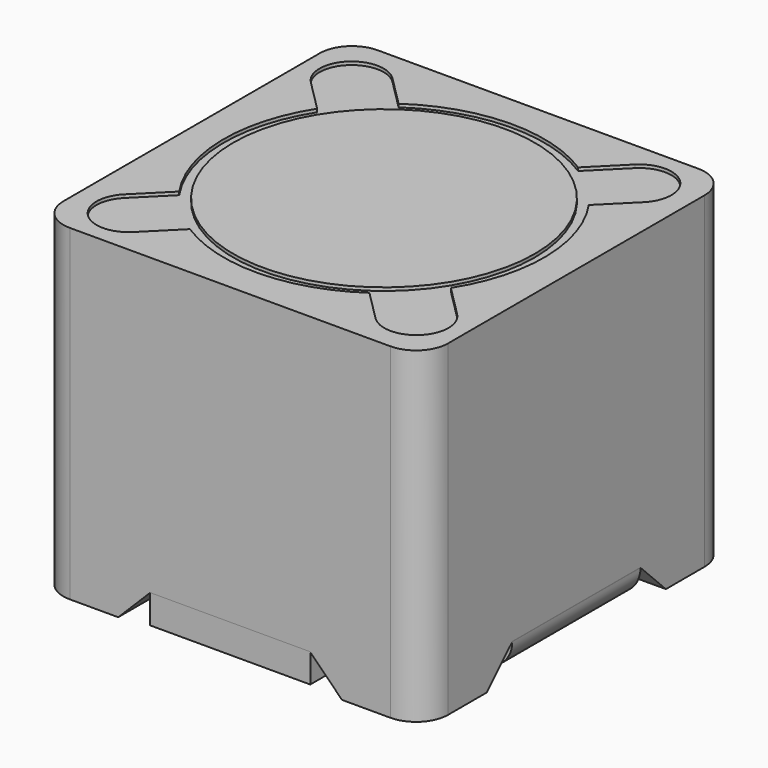
from build123d import *

# Parameters (mm, degrees)
BOX006_W                  = 5
BOX006_H                  = 5
BOX006_DEPTH              = 0.9
BOX007_W                  = 5
BOX007_H                  = 5
BOX007_DEPTH              = 0.9
BOX005_W                  = 5
BOX005_H                  = 5
BOX005_DEPTH              = 0.9
FILLET_R                  = 0.89
BOX004_W                  = 5
BOX004_H                  = 5
BOX004_DEPTH              = 0.9
FILLET003_R               = 0.89
CYLINDER002_R             = 4.7
CYLINDER002_DEPTH         = 0.3
BOX012_W                  = 11
BOX012_H                  = 11
BOX012_DEPTH              = 0.1
BOX009_W                  = 2
BOX009_H                  = 1.5
BOX009_DEPTH              = 0.3
CYLINDER007_R             = 1
CYLINDER007_DEPTH         = 0.3
FUSION001_PLACEMENT_ANGLE = 225
BOX008_W                  = 2
BOX008_H                  = 1.5
BOX008_DEPTH              = 0.3
CYLINDER006_R             = 1
CYLINDER006_DEPTH         = 0.3
FUSION_PLACEMENT_ANGLE    = -45
BOX011_W                  = 2
BOX011_H                  = 1.5
BOX011_DEPTH              = 0.3
CYLINDER009_R             = 1
CYLINDER009_DEPTH         = 0.3
FUSION003_PLACEMENT_ANGLE = 135
BOX010_W                  = 2
BOX010_H                  = 1.5
BOX010_DEPTH              = 0.3
CYLINDER008_R             = 1
CYLINDER008_DEPTH         = 0.3
FUSION002_PLACEMENT_ANGLE = 45
CYLINDER001_R             = 5
CYLINDER001_DEPTH         = 0.3
BOX001_W                  = 5
BOX001_H                  = 3.5
BOX001_DEPTH              = 1
BOX_W                     = 5
BOX_H                     = 3.5
BOX_DEPTH                 = 1
BOX002_W                  = 3.5
BOX002_H                  = 5
BOX002_DEPTH              = 1
BOX003_W                  = 3.5
BOX003_H                  = 5
BOX003_DEPTH              = 1
SKETCH_W                  = 12
SKETCH_H                  = 12
PAD_DEPTH                 = 10.2
CHAMFER_SIZE              = 0.99
FILLET002_R               = 1


with BuildPart() as kub006:
    # Box006 → Box006 (new body)
    with BuildSketch(Plane(origin=(-2.5, 1, 0.1), x_dir=(1, 0, 0), z_dir=(0, 0, 1))):
        with Locations((2.5, 2.5)):
            Rectangle(BOX006_W, BOX006_H)
    extrude(amount=BOX006_DEPTH)


with BuildPart() as kub007:
    # Box007 → Box007 (new body)
    with BuildSketch(Plane(origin=(-2.5, -6, 0.1), x_dir=(1, 0, 0), z_dir=(0, 0, 1))):
        with Locations((2.5, 2.5)):
            Rectangle(BOX007_W, BOX007_H)
    extrude(amount=BOX007_DEPTH)


with BuildPart() as fillet_body:
    # Box005 → Box005 (new body)
    with BuildSketch(Plane(origin=(-6, -2.5, 0.1), x_dir=(1, 0, 0), z_dir=(0, 0, 1))):
        with Locations((2.5, 2.5)):
            Rectangle(BOX005_W, BOX005_H)
    extrude(amount=BOX005_DEPTH)

    # Fillet
    fillet_edges = [fillet_body.edges().sort_by_distance(p)[0] for p in [
        (-6, 0, 0.1),
    ]]
    fillet(fillet_edges, radius=FILLET_R)


with BuildPart() as fillet003:
    # Box004 → Box004 (new body)
    with BuildSketch(Plane(origin=(1, -2.5, 0.1), x_dir=(1, 0, 0), z_dir=(0, 0, 1))):
        with Locations((2.5, 2.5)):
            Rectangle(BOX004_W, BOX004_H)
    extrude(amount=BOX004_DEPTH)

    # Fillet003
    fillet003_edges = [fillet003.edges().sort_by_distance(p)[0] for p in [
        (6, 0, 0.1),
    ]]
    fillet(fillet003_edges, radius=FILLET003_R)


with BuildPart() as cylinder002:
    # Cylinder002 → Cylinder002 (new body)
    with BuildSketch(Plane.XY.offset(9.9)):
        Circle(CYLINDER002_R)
    extrude(amount=CYLINDER002_DEPTH)


with BuildPart() as kub012:
    # Box012 → Box012 (new body)
    with BuildSketch(Plane(origin=(-5.5, -5.5, 10), x_dir=(1, 0, 0), z_dir=(0, 0, 1))):
        with Locations((5.5, 5.5)):
            Rectangle(BOX012_W, BOX012_H)
    extrude(amount=BOX012_DEPTH)


with BuildPart() as kub009:
    # Box009 → Box009 (new body)
    with BuildSketch(Plane(origin=(3.5, 3, 10), x_dir=(1, 0, 0), z_dir=(0, 0, 1))):
        with Locations((1, 0.75)):
            Rectangle(BOX009_W, BOX009_H)
    extrude(amount=BOX009_DEPTH)


with BuildPart() as fusion001:
    # Cylinder007 → Cylinder007 (new body)
    with BuildSketch(Plane(origin=(4.5, 4.5, 10), x_dir=(1, 0, 0), z_dir=(0, 0, 1))):
        Circle(CYLINDER007_R)
    extrude(amount=CYLINDER007_DEPTH)

    # Fusion001: union Kub009
    add(kub009.part)


with BuildPart() as fusion001_1:
    # Fusion001 placement: moved
    add(fusion001.part.moved(Location((4.5, 2, 0))).rotate(Axis((4.5, 2, 0), (0, 0, 1)), FUSION001_PLACEMENT_ANGLE))


with BuildPart() as kub008:
    # Box008 → Box008 (new body)
    with BuildSketch(Plane(origin=(3.5, 3, 10), x_dir=(1, 0, 0), z_dir=(0, 0, 1))):
        with Locations((1, 0.75)):
            Rectangle(BOX008_W, BOX008_H)
    extrude(amount=BOX008_DEPTH)


with BuildPart() as fusion:
    # Cylinder006 → Cylinder006 (new body)
    with BuildSketch(Plane(origin=(4.5, 4.5, 10), x_dir=(1, 0, 0), z_dir=(0, 0, 1))):
        Circle(CYLINDER006_R)
    extrude(amount=CYLINDER006_DEPTH)

    # Fusion: union Kub008
    add(kub008.part)


with BuildPart() as fusion_1:
    # Fusion placement: moved
    add(fusion.part.moved(Location((-2, 4.5, 0))).rotate(Axis((-2, 4.5, 0), (0, 0, 1)), FUSION_PLACEMENT_ANGLE))


with BuildPart() as kub011:
    # Box011 → Box011 (new body)
    with BuildSketch(Plane(origin=(3.5, 3, 10), x_dir=(1, 0, 0), z_dir=(0, 0, 1))):
        with Locations((1, 0.75)):
            Rectangle(BOX011_W, BOX011_H)
    extrude(amount=BOX011_DEPTH)


with BuildPart() as fusion003:
    # Cylinder009 → Cylinder009 (new body)
    with BuildSketch(Plane(origin=(4.5, 4.5, 10), x_dir=(1, 0, 0), z_dir=(0, 0, 1))):
        Circle(CYLINDER009_R)
    extrude(amount=CYLINDER009_DEPTH)

    # Fusion003: union Kub011
    add(kub011.part)


with BuildPart() as fusion003_1:
    # Fusion003 placement: moved
    add(fusion003.part.moved(Location((2, -4.5, 0))).rotate(Axis((2, -4.5, 0), (0, 0, 1)), FUSION003_PLACEMENT_ANGLE))


with BuildPart() as kub010:
    # Box010 → Box010 (new body)
    with BuildSketch(Plane(origin=(3.5, 3, 10), x_dir=(1, 0, 0), z_dir=(0, 0, 1))):
        with Locations((1, 0.75)):
            Rectangle(BOX010_W, BOX010_H)
    extrude(amount=BOX010_DEPTH)


with BuildPart() as fusion002:
    # Cylinder008 → Cylinder008 (new body)
    with BuildSketch(Plane(origin=(4.5, 4.5, 10), x_dir=(1, 0, 0), z_dir=(0, 0, 1))):
        Circle(CYLINDER008_R)
    extrude(amount=CYLINDER008_DEPTH)

    # Fusion002: union Kub010
    add(kub010.part)


with BuildPart() as fusion002_1:
    # Fusion002 placement: moved
    add(fusion002.part.moved(Location((-4.5, -2, 0))).rotate(Axis((-4.5, -2, 0), (0, 0, 1)), FUSION002_PLACEMENT_ANGLE))


with BuildPart() as cylinder001:
    # Cylinder001 → Cylinder001 (new body)
    with BuildSketch(Plane.XY.offset(10)):
        Circle(CYLINDER001_R)
    extrude(amount=CYLINDER001_DEPTH)


with BuildPart() as kub001:
    # Box001 → Box001 (new body)
    with BuildSketch(Plane(origin=(-2.5, -7, 0), x_dir=(1, 0, 0), z_dir=(0, 0, 1))):
        with Locations((2.5, 1.75)):
            Rectangle(BOX001_W, BOX001_H)
    extrude(amount=BOX001_DEPTH)


with BuildPart() as kub:
    # Box → Box (new body)
    with BuildSketch(Plane(origin=(-2.5, 3.5, 0), x_dir=(1, 0, 0), z_dir=(0, 0, 1))):
        with Locations((2.5, 1.75)):
            Rectangle(BOX_W, BOX_H)
    extrude(amount=BOX_DEPTH)


with BuildPart() as kub002:
    # Box002 → Box002 (new body)
    with BuildSketch(Plane(origin=(-7, -2.5, 0), x_dir=(1, 0, 0), z_dir=(0, 0, 1))):
        with Locations((1.75, 2.5)):
            Rectangle(BOX002_W, BOX002_H)
    extrude(amount=BOX002_DEPTH)


with BuildPart() as kub003:
    # Box003 → Box003 (new body)
    with BuildSketch(Plane(origin=(3.5, -2.5, 0), x_dir=(1, 0, 0), z_dir=(0, 0, 1))):
        with Locations((1.75, 2.5)):
            Rectangle(BOX003_W, BOX003_H)
    extrude(amount=BOX003_DEPTH)


with BuildPart() as cut008:
    # Sketch → Pad (new body)
    with BuildSketch(Plane.XY):
        Rectangle(SKETCH_W, SKETCH_H)
    extrude(amount=PAD_DEPTH)

    # Cut: cut Kub003
    add(kub003.part, mode=Mode.SUBTRACT)

    # Cut001: cut Kub002
    add(kub002.part, mode=Mode.SUBTRACT)

    # Cut002: cut Kub
    add(kub.part, mode=Mode.SUBTRACT)

    # Cut003: cut Kub001
    add(kub001.part, mode=Mode.SUBTRACT)

    # Chamfer
    chamfer_edges = [cut008.edges().sort_by_distance(p)[0] for p in [
        (4.75, -2.5, 0),
        (4.75, 2.5, 0),
        (2.5, 4.75, 0),
        (-2.5, 4.75, 0),
        (-4.75, 2.5, 0),
        (-4.75, -2.5, 0),
        (-2.5, -4.75, 0),
        (2.5, -4.75, 0),
    ]]
    chamfer(chamfer_edges, length=CHAMFER_SIZE)

    # Fillet002
    fillet002_edges = [cut008.edges().sort_by_distance(p)[0] for p in [
        (-6, 6, 5.1),
        (6, 6, 5.1),
        (-6, -6, 5.1),
        (6, -6, 5.1),
    ]]
    fillet(fillet002_edges, radius=FILLET002_R)

    # Cut004: cut Cylinder001
    add(cylinder001.part, mode=Mode.SUBTRACT)

    # Cut005: cut Fusion002
    add(fusion002_1.part, mode=Mode.SUBTRACT)

    # Cut006: cut Fusion003
    add(fusion003_1.part, mode=Mode.SUBTRACT)

    # Cut007: cut Fusion
    add(fusion_1.part, mode=Mode.SUBTRACT)

    # Cut008: cut Fusion001
    add(fusion001_1.part, mode=Mode.SUBTRACT)


solid = Compound([kub006.part, kub007.part, fillet_body.part, fillet003.part, cylinder002.part, kub012.part, cut008.part])
